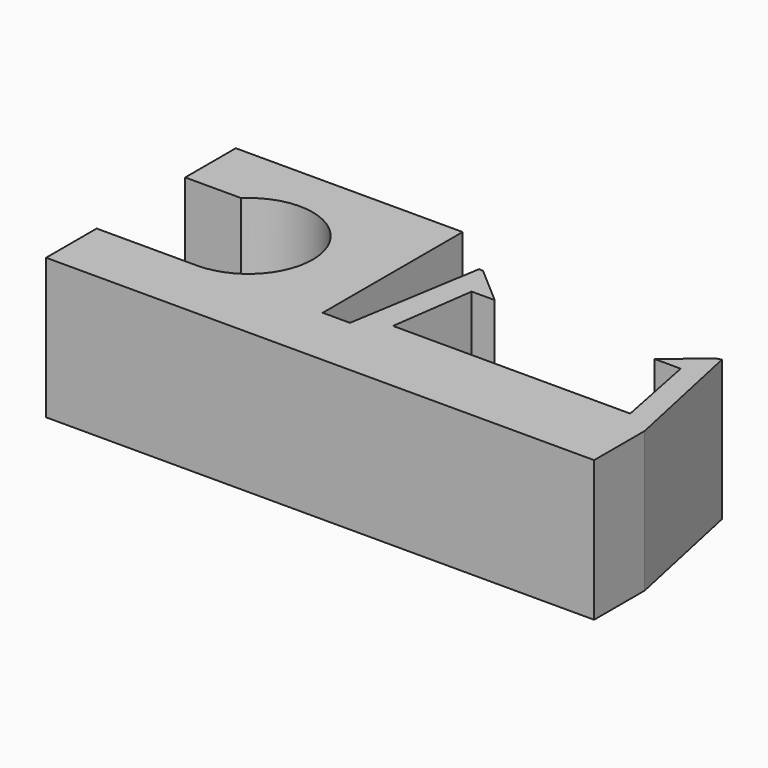
from build123d import *

# Parameters (mm, degrees)
PAD_DEPTH    = 8.89
PAD001_DEPTH = 1.524


with BuildPart() as part:
    # Sketch → Pad (new body)
    with BuildSketch(Plane.XY):
        with BuildLine():
            Line((0, 0), (34.67, 0))
            Line((34.67, 0), (34.67, 4))
            Line((32.878183, 12.345886), (34.67, 4))
            Line((32.584282, 12.256473), (32.878183, 12.345886))
            Line((30.236841, 10.317895), (32.584282, 12.256473))
            Line((31.895653, 10.315125), (30.236841, 10.317895))
            Line((33.146309, 4.011625), (31.895653, 10.315125))
            Line((17.790159, 3.913346), (33.146309, 4.011625))
            Line((18.678085, 10.301132), (17.790159, 3.913346))
            Line((20.137171, 10.305716), (18.678085, 10.301132))
            Line((17.736418, 12.384692), (20.137171, 10.305716))
            Line((17.467266, 12.41508), (17.736418, 12.384692))
            Line((16.074211, 3.934741), (17.467266, 12.41508))
            Line((14.35, 3.937935), (16.074211, 3.934741))
            Line((14.35, 15), (14.35, 3.937935))
            Line((0, 15), (14.35, 15))
            Line((0, 11), (0, 15))
            Line((3.540018, 11), (0, 11))
            ThreePointArc((6.35, 4), (10.121472, 9.577967), (3.540018, 11))
            Line((0, 4), (6.35, 4))
            Line((0, 0), (0, 4))
        make_face()
    extrude(amount=PAD_DEPTH)

    # Sketch001 → Pad001 (new body)
    with BuildSketch(Plane.XY.offset(8.89)):
        Polygon((16.09544, 3.889412), (17.92443, 5.005656), (33.057573, 5.005656), (34.640282, 3.938822), align=None)
    extrude(amount=-PAD001_DEPTH)


solid = part.part
